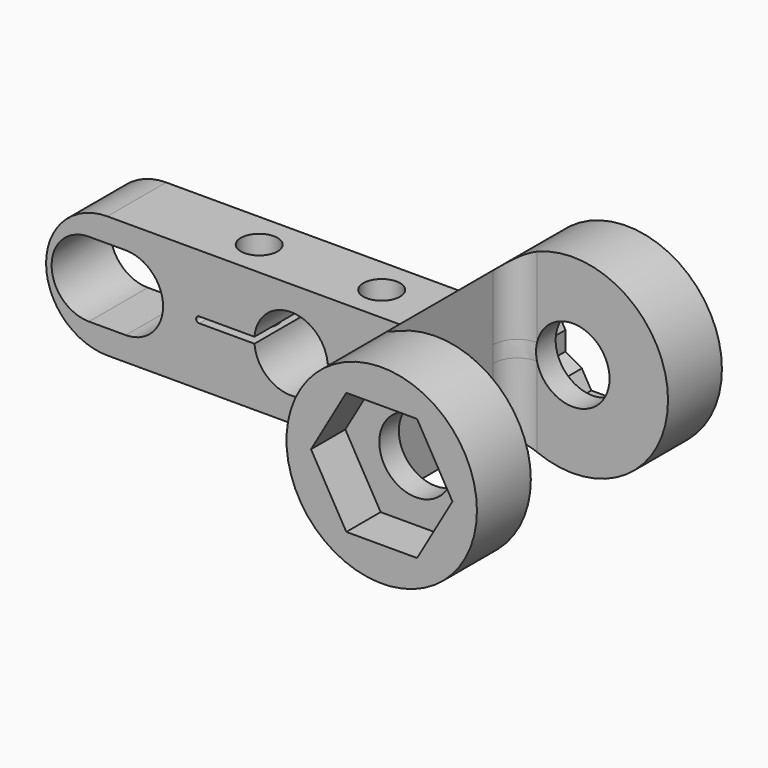
from build123d import *

# Parameters (mm, degrees)
SKETCH012_R     = 3
PAD005_DEPTH    = 3
SKETCH013_R     = 7.773503
SKETCH013_R_2   = 3
PAD006_DEPTH    = 12.5
POCKET005_DEPTH = 2.5
POCKET006_DEPTH = 5
SKETCH016_R     = 1.5
SKETCH016_W     = 16.799735
SKETCH016_H     = 14
POCKET007_DEPTH = 10
FILLET_R        = 2


with BuildPart() as part:
    # Sketch012 → Pad005 (new body, symmetric)
    with BuildSketch(Plane.XZ):
        with BuildLine():
            ThreePointArc((-15, 5), (-20, 0), (-15, -5))
            Line((-15, -5), (9.047913, -5))
            ThreePointArc((9.047913, -5), (22.773503, 0), (9.047913, 5))
            Line((-15, 5), (9.047913, 5))
        make_face()
        with Locations((15, 0)):
            Circle(SKETCH012_R, mode=Mode.SUBTRACT)
        with BuildLine():
            ThreePointArc((-2.989565, -0.25), (0, -3), (2.989565, -0.25))
            Line((2.989565, -0.25), (7.5, -0.25))
            ThreePointArc((7.5, -0.25), (7.75, 0), (7.5, 0.25))
            Line((2.989565, 0.25), (7.5, 0.25))
            ThreePointArc((2.989565, 0.25), (0, 3), (-2.989565, 0.25))
            Line((-7.5, 0.25), (-2.989565, 0.25))
            ThreePointArc((-7.5, 0.25), (-7.75, 0), (-7.5, -0.25))
            Line((-7.5, -0.25), (-2.989565, -0.25))
        make_face(mode=Mode.SUBTRACT)
        with BuildLine():
            ThreePointArc((-16.5, 3.05), (-19.55, 0), (-16.5, -3.05))
            Line((-16.5, -3.05), (-13.5, -3.05))
            ThreePointArc((-13.5, -3.05), (-10.45, 0), (-13.5, 3.05))
            Line((-16.5, 3.05), (-13.5, 3.05))
        make_face(mode=Mode.SUBTRACT)
    extrude(amount=PAD005_DEPTH, both=True)

    # Sketch013 → Pad006 (join, symmetric)
    with BuildSketch(Plane.XZ):
        with Locations((15, 0)):
            Circle(SKETCH013_R)
        with Locations((15, 0)):
            Circle(SKETCH013_R_2, mode=Mode.SUBTRACT)
    extrude(amount=PAD006_DEPTH, both=True)

    # Sketch014 → Pocket005 (cut, symmetric)
    with BuildSketch(Plane.XZ.offset(11.5)):
        Polygon((17.886751, -5), (20.773503, 0), (17.886751, 5), (12.113249, 5), (9.226497, 0), (12.113249, -5), align=None)
    extrude(amount=POCKET005_DEPTH, both=True, mode=Mode.SUBTRACT)

    # Sketch015 → Pocket006 (cut)
    with BuildSketch(Plane.XZ.offset(-9)):
        Polygon((17.886751, -5), (18.660254, -3.660254), (20, -2.886751), (20, -1.339746), (20.773503, 0), (20, 1.339746), (20, 2.886751), (18.660254, 3.660254), (17.886751, 5), (16.339746, 5), (15, 5.773503), (13.660254, 5), (12.113249, 5), (11.339746, 3.660254), (10, 2.886751), (10, 1.339746), (9.226497, 0), (10, -1.339746), (10, -2.886751), (11.339746, -3.660254), (12.113249, -5), (13.660254, -5), (15, -5.773503), (16.339746, -5), align=None)
    extrude(amount=-POCKET006_DEPTH, mode=Mode.SUBTRACT)

    # Sketch016 → Pocket007 (cut, symmetric)
    with BuildSketch(Plane.XY):
        with Locations((-5, 0)):
            Circle(SKETCH016_R)
        with Locations((5, 0)):
            Circle(SKETCH016_R)
        with Locations((18.475649, 0)):
            Rectangle(SKETCH016_W, SKETCH016_H)
    extrude(amount=POCKET007_DEPTH, both=True, mode=Mode.SUBTRACT)

    # Fillet
    fillet_edges = [part.edges().sort_by_distance(p)[0] for p in [
        (10.075782, -7, 0),
        (10.075782, 7, 0),
    ]]
    fillet(fillet_edges, radius=FILLET_R)


with BuildPart() as part_1:
    # Body022 placement: moved
    add(part.part.moved(Location((0, 47.5, 0))))


solid = part_1.part
